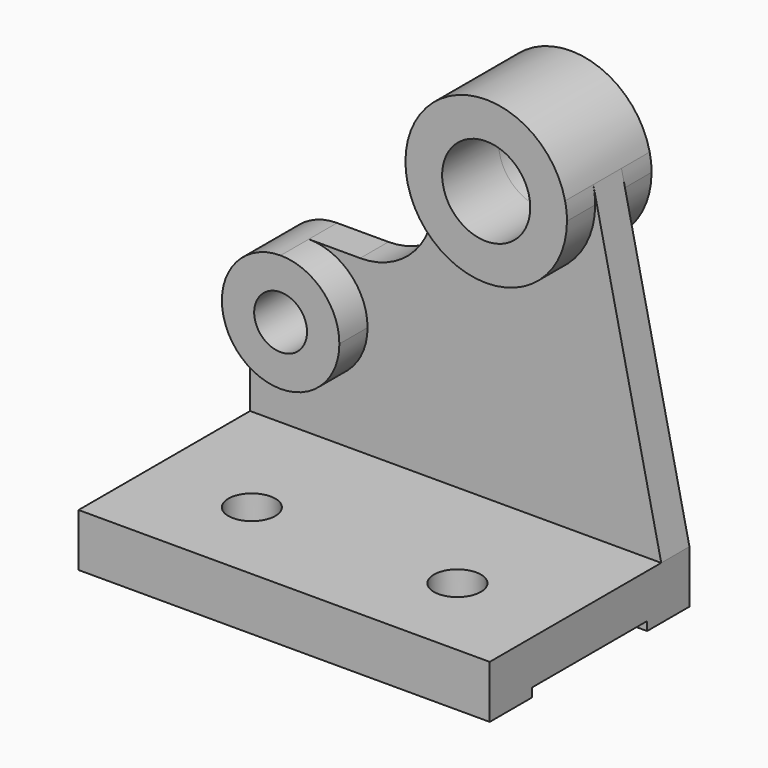
from build123d import *

# Parameters (mm, degrees)
F0_W      = 140
F0_H      = 18
F1_DEPTH  = 12
F2_R      = 25
F0_R      = 9
F3_DEPTH  = 24
F0_R_2    = 15
F4_DEPTH  = 24
F5_DEPTH  = 12
F6_DEPTH  = 85
F7_W      = 49
F7_H      = 3
F8_DEPTH  = 140.001
F9_R      = 8
F10_DEPTH = 18.001


with BuildPart() as f1:
    # F0 (on Front) → F1 (new body)
    with BuildSketch(Plane.XZ):
        with BuildLine():
            ThreePointArc((20, 76), (34.142136, 70.142136), (40, 56))
            ThreePointArc((40, 56), (20, 36), (0, 56))
            Line((0, 56), (0, 18))
            Line((0, 18), (140, 18))
            Line((140, 18), (116.866088, 123.870544))
            ThreePointArc((116.866088, 123.870544), (117.341063, 120.952335), (117.5, 118))
            ThreePointArc((117.5, 118), (90, 90.5), (62.5, 118))
            Line((62.5, 118), (62.5, 76))
            Line((62.5, 76), (20, 76))
        make_face()
        with Locations((70, 9)):
            Rectangle(F0_W, F0_H)
    extrude(amount=F1_DEPTH)

    # F2
    f2_edges = [f1.edges().sort_by_distance(p)[0] for p in [
        (62.5, -6, 76),
    ]]
    fillet(f2_edges, radius=F2_R)

    # F0 (on Front) → F3 (join)
    with BuildSketch(Plane.XZ):
        with BuildLine():
            ThreePointArc((0, 56), (20, 36), (40, 56))
            ThreePointArc((40, 56), (34.142136, 70.142136), (20, 76))
            ThreePointArc((20, 76), (5.857864, 70.142136), (0, 56))
        make_face()
        with Locations((20, 56)):
            Circle(F0_R, mode=Mode.SUBTRACT)
    extrude(amount=F3_DEPTH)

    # F0 (on Front) → F4 (join)
    with BuildSketch(Plane.XZ):
        with BuildLine():
            ThreePointArc((116.866088, 123.870544), (87.047665, 145.341063), (62.5, 118))
            ThreePointArc((62.5, 118), (90, 90.5), (117.5, 118))
            ThreePointArc((117.5, 118), (117.341063, 120.952335), (116.866088, 123.870544))
        make_face()
        with Locations((90, 118)):
            Circle(F0_R_2, mode=Mode.SUBTRACT)
    extrude(amount=F4_DEPTH)

    # F0 (on Front) → F5 (join)
    with BuildSketch(Plane.XZ):
        with BuildLine():
            ThreePointArc((116.866088, 123.870544), (87.047665, 145.341063), (62.5, 118))
            ThreePointArc((62.5, 118), (90, 90.5), (117.5, 118))
            ThreePointArc((117.5, 118), (117.341063, 120.952335), (116.866088, 123.870544))
        make_face()
        with Locations((90, 118)):
            Circle(F0_R_2, mode=Mode.SUBTRACT)
    extrude(amount=-F5_DEPTH)

    # F0 (on Front) → F6 (join)
    with BuildSketch(Plane.XZ):
        with Locations((70, 9)):
            Rectangle(F0_W, F0_H)
    extrude(amount=F6_DEPTH)

    # F7 (on face) → F8 (cut, through all)
    with BuildSketch(Plane(origin=(0, 0, 0), x_dir=(0, -1, 0), z_dir=(-1, 0, 0))):
        with Locations((42.5, 1.5)):
            Rectangle(F7_W, F7_H)
    extrude(amount=-F8_DEPTH, mode=Mode.SUBTRACT)

    # F9 (on face) → F10 (cut, through all)
    with BuildSketch(Plane.XY.offset(18)):
        with Locations((35, -55)):
            Circle(F9_R)
        with Locations((105, -55)):
            Circle(F9_R)
    extrude(amount=-F10_DEPTH, mode=Mode.SUBTRACT)


solid = f1.part
